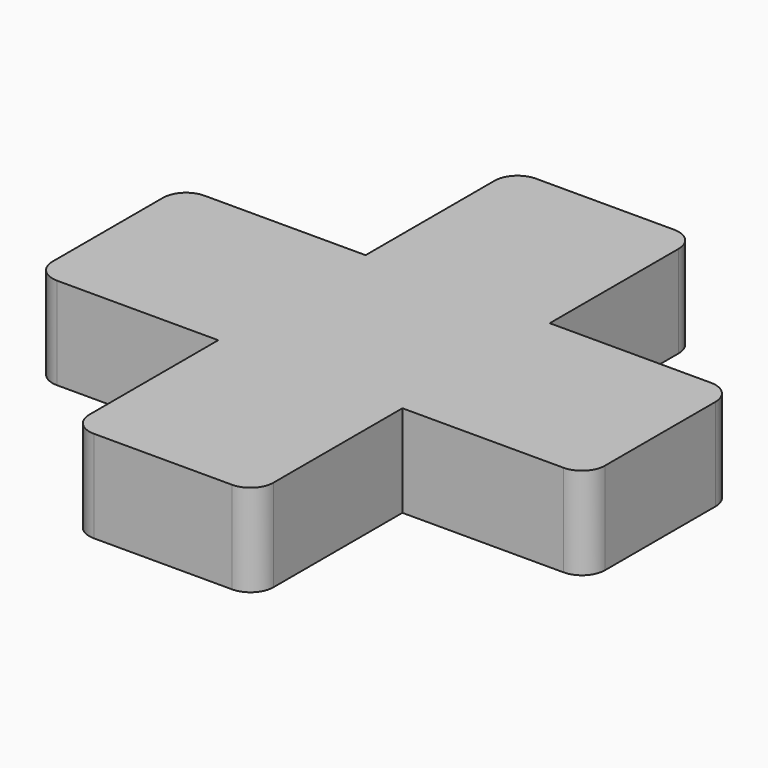
from build123d import *

# Parameters (mm, degrees)
F0_W     = 6.35
F0_H     = 6.35
F1_DEPTH = 3.175


with BuildPart() as f1:
    # F0 (on Top) → F1 (new body)
    with BuildSketch(Plane.XY):
        with BuildLine():
            Line((2.38125, 9.525), (-2.38125, 9.525))
            ThreePointArc((-2.38125, 9.525), (-2.9425160076, 9.2925160076), (-3.175, 8.73125))
            Line((-3.175, 8.73125), (-3.175, 3.175))
            Line((-3.175, 3.175), (3.175, 3.175))
            Line((3.175, 3.175), (3.175, 8.73125))
            ThreePointArc((3.175, 8.73125), (2.9425160076, 9.2925160076), (2.38125, 9.525))
        make_face()
        Rectangle(F0_W, F0_H)
        with BuildLine():
            Line((-3.175, -3.175), (-3.175, 3.175))
            Line((-3.175, 3.175), (-8.73125, 3.175))
            ThreePointArc((-8.73125, 3.175), (-9.2925160076, 2.9425160076), (-9.525, 2.38125))
            Line((-9.525, 2.38125), (-9.525, -2.38125))
            ThreePointArc((-9.525, -2.38125), (-9.2925160076, -2.9425160076), (-8.73125, -3.175))
            Line((-8.73125, -3.175), (-3.175, -3.175))
        make_face()
        with BuildLine():
            Line((8.73125, 3.175), (3.175, 3.175))
            Line((3.175, 3.175), (3.175, -3.175))
            Line((3.175, -3.175), (8.73125, -3.175))
            ThreePointArc((8.73125, -3.175), (9.2925160076, -2.9425160076), (9.525, -2.38125))
            Line((9.525, -2.38125), (9.525, 2.38125))
            ThreePointArc((9.525, 2.38125), (9.2925160076, 2.9425160076), (8.73125, 3.175))
        make_face()
        with BuildLine():
            Line((3.175, -3.175), (-3.175, -3.175))
            Line((-3.175, -3.175), (-3.175, -8.73125))
            ThreePointArc((-3.175, -8.73125), (-2.9425160076, -9.2925160076), (-2.38125, -9.525))
            Line((-2.38125, -9.525), (2.38125, -9.525))
            ThreePointArc((2.38125, -9.525), (2.9425160076, -9.2925160076), (3.175, -8.73125))
            Line((3.175, -8.73125), (3.175, -3.175))
        make_face()
    extrude(amount=F1_DEPTH)


solid = f1.part
